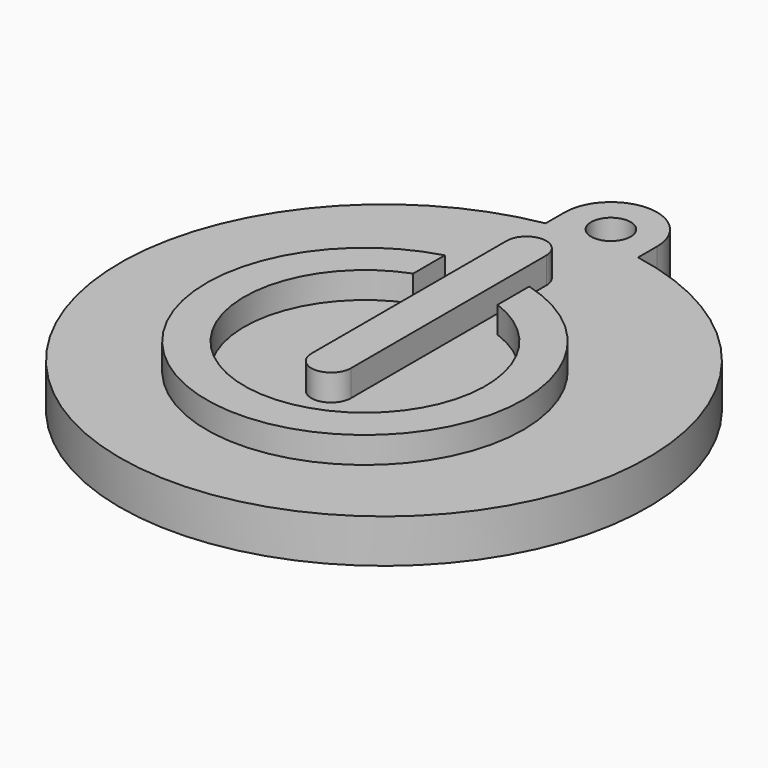
from build123d import *

# Parameters (mm, degrees)
EXTRUDE_DEPTH = 3.3
SKETCH001_R   = 1.5
POCKET_DEPTH  = 3.301
PAD_DEPTH     = 2


with BuildPart() as part:
    # Sketch → Extrude (new body)
    with BuildSketch(Plane.XY):
        with BuildLine():
            ThreePointArc((3.5, 21.5), (0, 25), (-3.5, 21.5))
            Line((-3.5, 21.5), (-3.5, 19.691369))
            ThreePointArc((-3.5, 19.691369), (0, -20), (3.5, 19.691369))
            Line((3.5, 19.691369), (3.5, 21.5))
        make_face()
    extrude(amount=EXTRUDE_DEPTH)

    # Sketch001 → Pocket (cut, through all)
    with BuildSketch(Plane.XY.offset(3.3)):
        with Locations((0, 21.5)):
            Circle(SKETCH001_R)
    extrude(amount=-POCKET_DEPTH, mode=Mode.SUBTRACT)

    # Sketch002 → Pad (new body)
    with BuildSketch(Plane.XY.offset(3.3)):
        with BuildLine():
            ThreePointArc((1.5, 13.500001), (0, 15), (-1.5, 13.5))
            Line((-1.5, 13.5), (-1.5, -5))
            ThreePointArc((-1.5, -5), (0, -6.5), (1.5, -4.999999))
            Line((1.5, 13.500001), (1.5, -4.999999))
        make_face()
        with BuildLine():
            Line((-3.2, 6.765466), (-3.2, 9.765466))
            ThreePointArc((-3.2, 9.765466), (0, -13.8), (3.2, 9.765466))
            Line((3.2, 6.765466), (3.2, 9.765466))
            ThreePointArc((-3.2, 6.765466), (0, -10.943698), (3.2, 6.765466))
        make_face()
    extrude(amount=PAD_DEPTH)


solid = part.part
